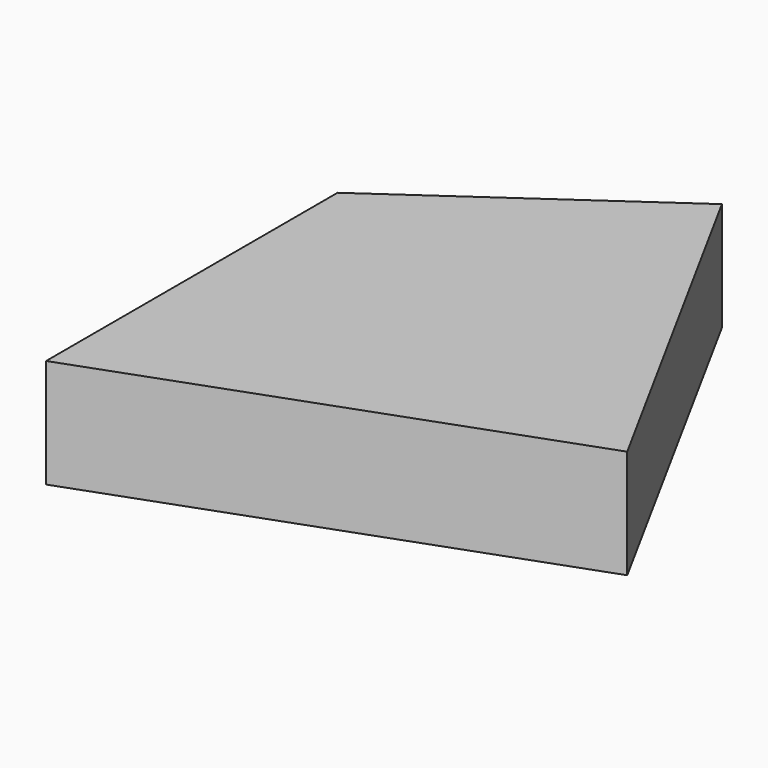
from build123d import *

# Parameters (mm, degrees)
EXTRUDE_DEPTH = 12


with BuildPart() as part:
    # Polyline002 → Extrude (new body)
    with BuildSketch(Plane(origin=(223.184156, -238.834789, 0), x_dir=(0, 1, 0), z_dir=(0, 0, 1))):
        with BuildLine():
            add(Edge.make_bspline(
                [(10.581922, 24.829911), (-29.606522, 24.829911)],
                knots=[0, 0, 142.4, 142.4], degree=1))
            add(Edge.make_bspline(
                [(-29.606522, 24.829911), (-11.549944, -24.829911)],
                knots=[0, 0, 187.230772, 187.230772], degree=1))
            add(Edge.make_bspline(
                [(-11.549944, -24.829911), (29.606522, -2.350911)],
                knots=[0, 0, 166.16411, 166.16411], degree=1))
            add(Edge.make_bspline(
                [(29.606522, -2.350911), (10.581922, 24.829911)],
                knots=[0, 0, 117.557323, 117.557323], degree=1))
        make_face()
    extrude(amount=EXTRUDE_DEPTH)


solid = part.part
